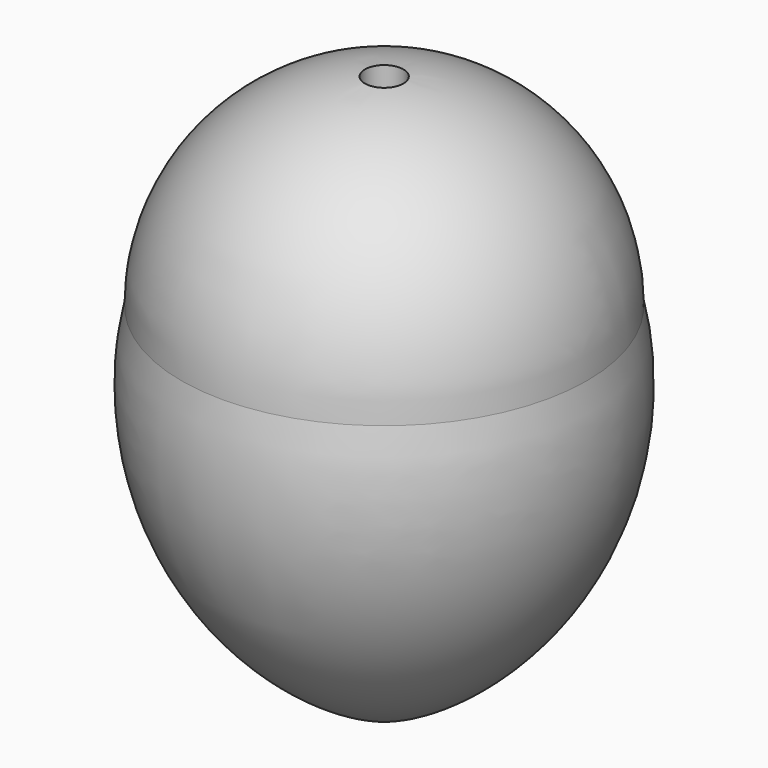
from build123d import *


with BuildPart() as f1:
    # F0 (on Right) → F1 (revolve)
    with BuildSketch(Plane.YZ):
        with BuildLine():
            ThreePointArc((0, -6.451071), (2.850161, -3.83675), (3.337434, 0))
            ThreePointArc((3.337434, 0), (2.378342, 2.480535), (0, 3.67066))
            Line((0, 3.67066), (0, -6.451071))
        make_face()
    revolve(axis=Axis((0, -0.349861, -0.754924), (0, 0, -1)))


solid = f1.part
